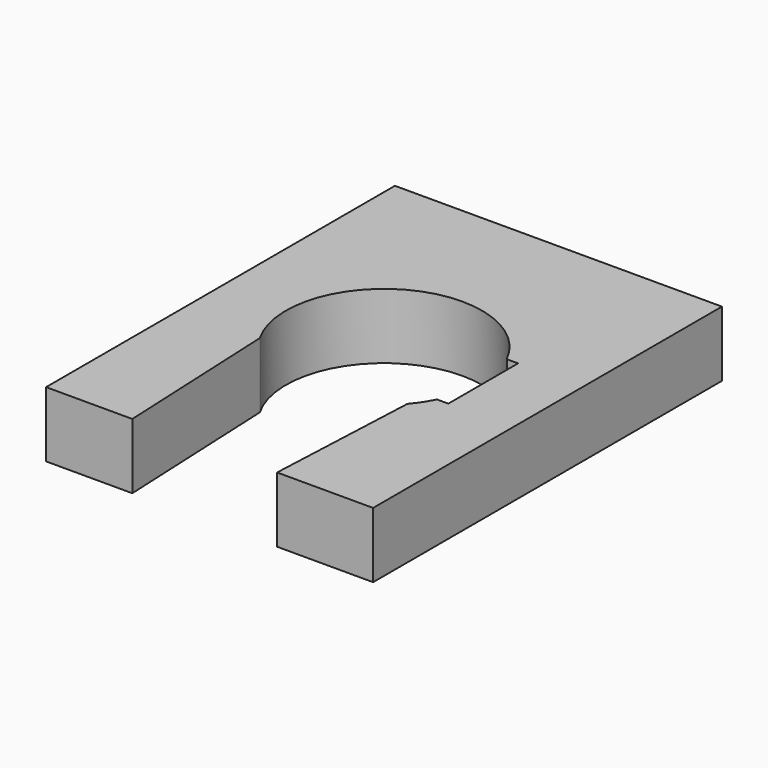
from build123d import *

# Parameters (mm, degrees)
SKETCH001_W     = 15
SKETCH001_H     = 20
PAD_DEPTH       = 3
SKETCH_R        = 4.5
POCKET_DEPTH    = 3
SKETCH002_W     = 2
SKETCH002_H     = 4
POCKET001_DEPTH = 3
POCKET002_DEPTH = 3


with BuildPart() as part:
    # Sketch001 → Pad (new body)
    with BuildSketch(Plane.XY):
        Rectangle(SKETCH001_W, SKETCH001_H)
    extrude(amount=-PAD_DEPTH)

    # Sketch → Pocket (cut)
    with BuildSketch(Plane.XY):
        Circle(SKETCH_R)
    extrude(amount=-POCKET_DEPTH, mode=Mode.SUBTRACT)

    # Sketch002 (on Face4 of Pocket) → Pocket001 (cut)
    with BuildSketch(Plane.XY):
        with Locations((3.55, 0)):
            Rectangle(SKETCH002_W, SKETCH002_H)
    extrude(amount=-POCKET001_DEPTH, mode=Mode.SUBTRACT)

    # Sketch003 (on Face4 of Pocket001) → Pocket002 (cut)
    with BuildSketch(Plane.XY):
        Polygon((3.05, -11), (-3.5, -11), (-4, 0), (3.55, 0), align=None)
    extrude(amount=-POCKET002_DEPTH, mode=Mode.SUBTRACT)


solid = part.part
